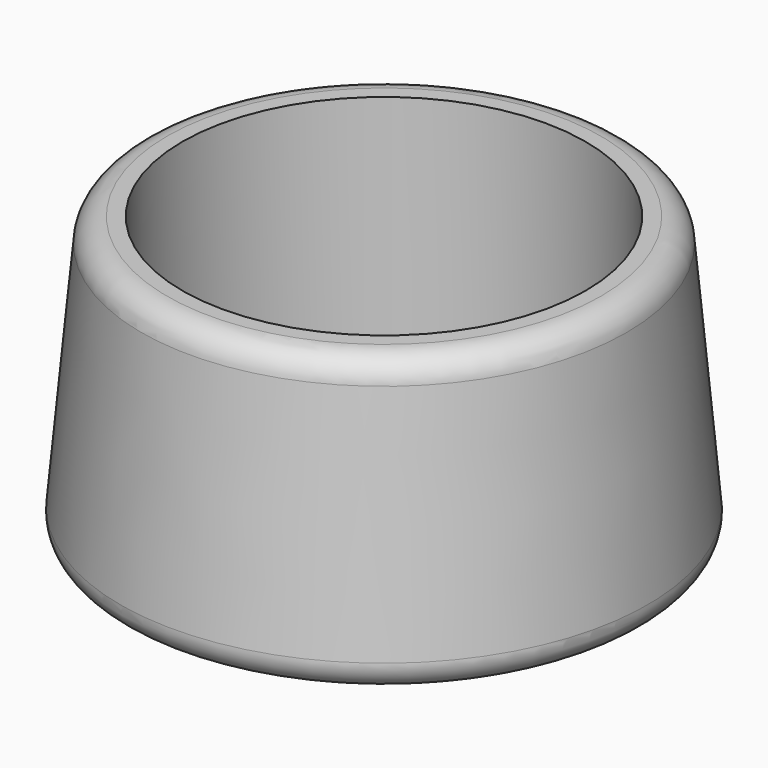
from build123d import *


with BuildPart() as f1:
    # F0 (on Front) → F1 (revolve)
    with BuildSketch(Plane.XZ):
        with BuildLine():
            Line((-9.204967, 0), (-0.8, 0))
            Line((-0.8, 0), (-0.8, 1))
            Line((-0.8, 1), (-7.8, 1))
            Line((-7.8, 1), (-7.8, 11))
            Line((-7.8, 11), (-8.386785, 11))
            ThreePointArc((-8.386785, 11), (-9.061124, 10.738423), (-9.382679, 10.090536))
            Line((-9.382679, 10.090536), (-10.20086, 1.090536))
            ThreePointArc((-10.20086, 1.090536), (-9.94339, 0.325662), (-9.204967, 0))
        make_face()
    revolve(axis=Axis((0, 0, 1.31524), (0, 0, 1)))


solid = f1.part
